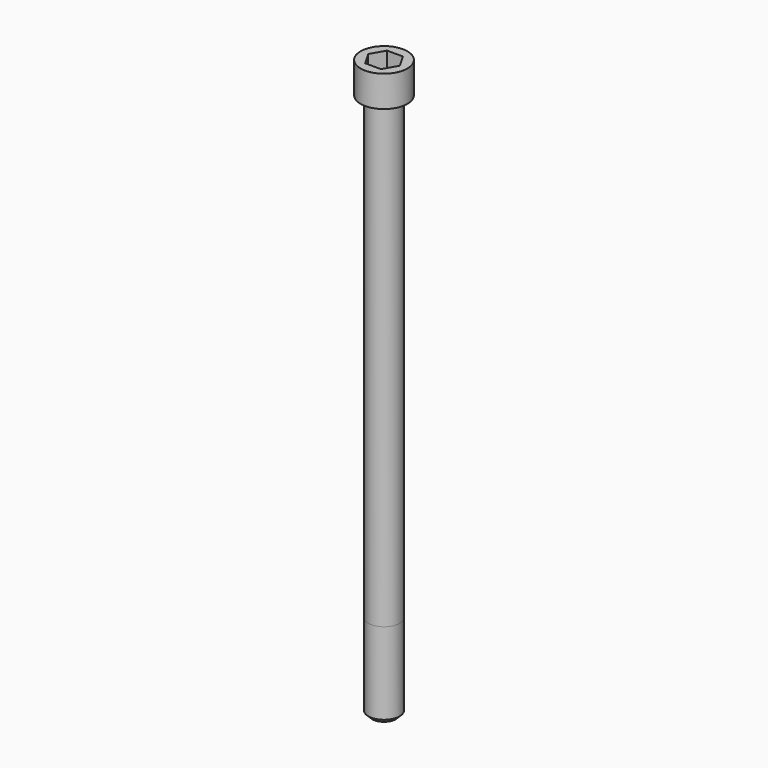
from build123d import *

# Parameters (mm, degrees)
POCKET_DEPTH = 14.08


with BuildPart() as part:
    # Sketch → Revolve (revolve)
    with BuildSketch(Plane.YZ):
        with BuildLine():
            Line((7.999, 0), (12, 0))
            Line((12, 0), (12, 15.97229))
            ThreePointArc((12, 15.97229), (11.991884, 15.991884), (11.97229, 16))
            Line((11.97229, 16), (0, 16))
            Line((0, -280), (0, 16))
            Line((6, -280), (0, -280))
            Line((8, -278), (6, -280))
            Line((8, -236), (8, -278))
            Line((7.999, 0), (8, -236))
        make_face()
    revolve(axis=Axis((0, 0, 0), (0, 0, 1)))

    # Sketch001 → Pocket (cut)
    with BuildSketch(Plane.XY.offset(16)):
        Polygon((8.129092, 0), (4.064546, 7.04), (-4.064546, 7.04), (-8.129092, 0), (-4.064546, -7.04), (4.064546, -7.04), align=None)
    extrude(amount=-POCKET_DEPTH, mode=Mode.SUBTRACT)


solid = part.part
